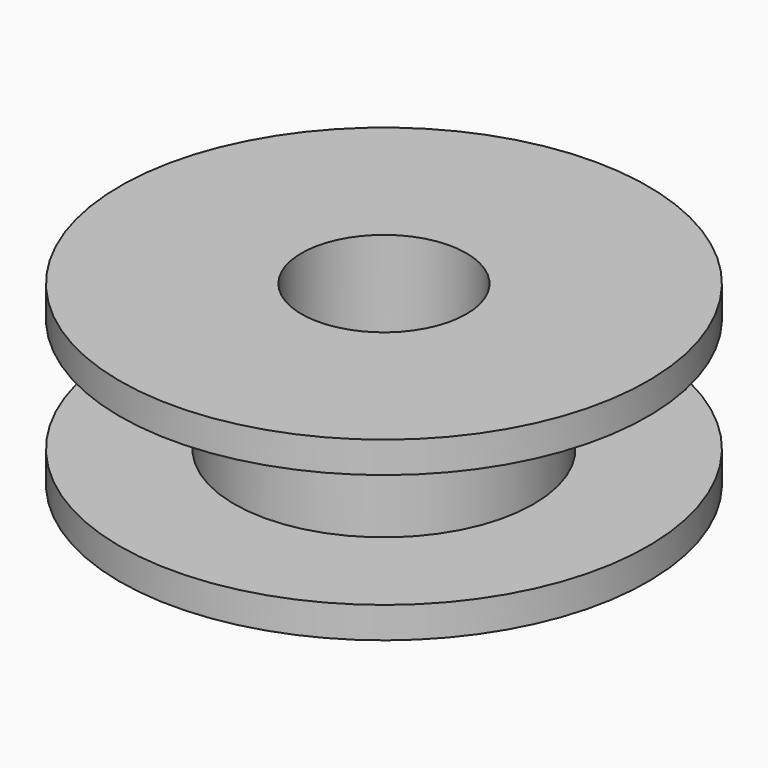
from build123d import *

# Parameters (mm, degrees)
F2_R     = 7.9375
F3_DEPTH = 25.4
F4_R     = 12.7
F4_R_2   = 7.9375
F5_DEPTH = 6.35


with BuildPart() as f1:
    # F0 (on Right) → F1 (revolve)
    with BuildSketch(Plane.YZ):
        Polygon((0, 17), (0, 0), (25.4, 0), (25.4, 3), (14.4, 3), (14.4, 14), (25.4, 14), (25.4, 17), align=None)
    revolve(axis=Axis((0, 0, 8.5), (0, 0, -1)))

    # F2 (on face) → F3 (cut)
    with BuildSketch(Plane.XY.offset(17)):
        Circle(F2_R)
    extrude(amount=-F3_DEPTH, mode=Mode.SUBTRACT)

    # F4 (on face) → F5 (join)
    with BuildSketch(Plane(origin=(0, 0, 0), x_dir=(1, 0, 0), z_dir=(0, 0, -1))):
        Circle(F4_R)
        Circle(F4_R_2, mode=Mode.SUBTRACT)
    extrude(amount=F5_DEPTH)


solid = f1.part
